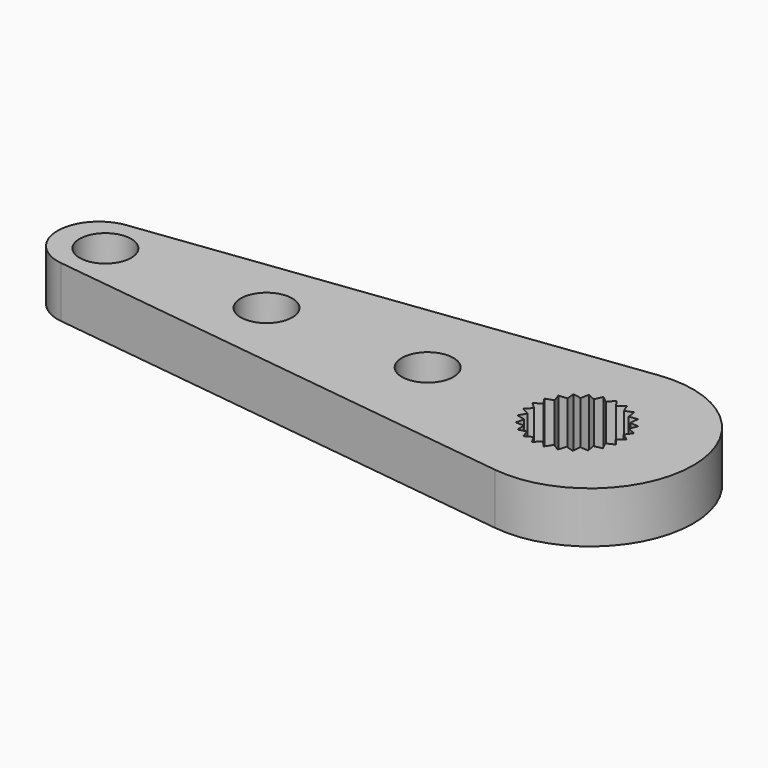
from build123d import *

# Parameters (mm, degrees)
F0_R     = 1.6
F1_DEPTH = 3.175


with BuildPart() as f1:
    # F0 (on Top) → F1 (new body)
    with BuildSketch(Plane.XY):
        with BuildLine():
            ThreePointArc((0, -6.35), (7.207455, 0), (0, 6.35))
            Line((0, 6.35), (-30, 2.54))
            ThreePointArc((-30, 2.54), (-32.237822, 0), (-30, -2.54))
            Line((-30, -2.54), (0, -6.35))
        make_face()
        with Locations((-29.271, 0)):
            Circle(F0_R, mode=Mode.SUBTRACT)
        with Locations((-19.271, 0)):
            Circle(F0_R, mode=Mode.SUBTRACT)
        with Locations((-9.271, 0)):
            Circle(F0_R, mode=Mode.SUBTRACT)
        Polygon((-2.313127, 1.150841), (-2.481189, 1.651718), (-1.954254, 1.689937), (-1.992473, 2.216873), (-1.472587, 2.122848), (-1.378562, 2.642733), (-0.898392, 2.422372), (-0.678031, 2.902541), (-0.267748, 2.56969), (0.065104, 2.979972), (0.37972, 2.555544), (0.804147, 2.87016), (1.003328, 2.380825), (1.492663, 2.580005), (1.563894, 2.056509), (2.08739, 2.12774), (2.026194, 1.602976), (2.550958, 1.54178), (2.361181, 1.048721), (2.85424, 0.858945), (2.547807, 0.428572), (2.97818, 0.122139), (2.574344, -0.218506), (2.914989, -0.622342), (2.439126, -0.851855), (2.668639, -1.327718), (2.150649, -1.431678), (2.254609, -1.949669), (1.727038, -1.921544), (1.698914, -2.449115), (1.194912, -2.290672), (1.036469, -2.794674), (0.587704, -2.515869), (0.308899, -2.964634), (-0.056431, -2.582985), (-0.43808, -2.948314), (-0.69702, -2.487802), (-1.157533, -2.746742), (-1.293813, -2.236301), (-1.804254, -2.372581), (-1.809311, -1.844285), (-2.337607, -1.849342), (-2.211123, -1.336386), (-2.724079, -1.209903), (-2.474002, -0.744517), (-2.939388, -0.494441), (-2.581431, -0.105868), (-2.970004, 0.252089), (-2.526659, 0.539434), (-2.814004, 0.982779), align=None, mode=Mode.SUBTRACT)
    extrude(amount=F1_DEPTH)


solid = f1.part
